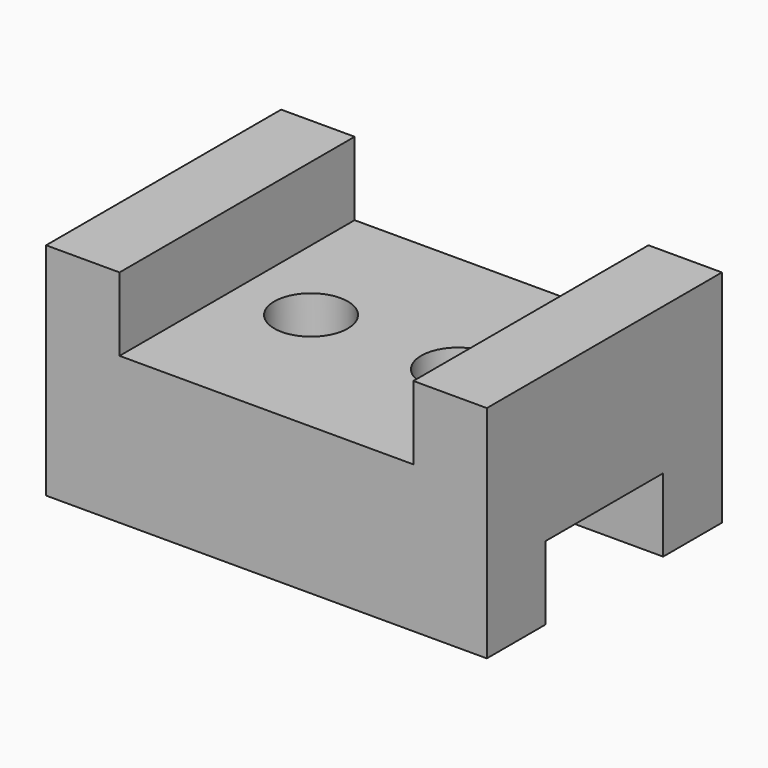
from build123d import *

# Parameters (mm, degrees)
F0_W     = 30
F0_H     = 20
F1_DEPTH = 15
F2_W     = 10
F2_H     = 5
F3_DEPTH = 30.001
F4_W     = 20
F4_H     = 5
F5_DEPTH = 20.001
F7_R     = 2.5
F8_DEPTH = 10.001


with BuildPart() as f1:
    # F0 (on Top) → F1 (new body)
    with BuildSketch(Plane.XY):
        with Locations((4.308961, 9.361647)):
            Rectangle(F0_W, F0_H)
    extrude(amount=F1_DEPTH)

    # F2 (on face) → F3 (cut, through all)
    with BuildSketch(Plane.YZ.offset(19.308961)):
        with Locations((9.361647, 2.5)):
            Rectangle(F2_W, F2_H)
    extrude(amount=-F3_DEPTH, mode=Mode.SUBTRACT)

    # F4 (on face) → F5 (cut, through all)
    with BuildSketch(Plane(origin=(0, 19.361647, 0), x_dir=(-1, 0, 0), z_dir=(0, 1, 0))):
        with Locations((-4.308961, 12.5)):
            Rectangle(F4_W, F4_H)
    extrude(amount=-F5_DEPTH, mode=Mode.SUBTRACT)

    # F7 (on face) → F8 (cut, through all)
    with BuildSketch(Plane.XY.offset(10)):
        with Locations((-0.683151, 9.394292)):
            Circle(F7_R)
        with Locations((9.317168, 9.394293)):
            Circle(F7_R)
    extrude(amount=-F8_DEPTH, mode=Mode.SUBTRACT)


solid = f1.part
